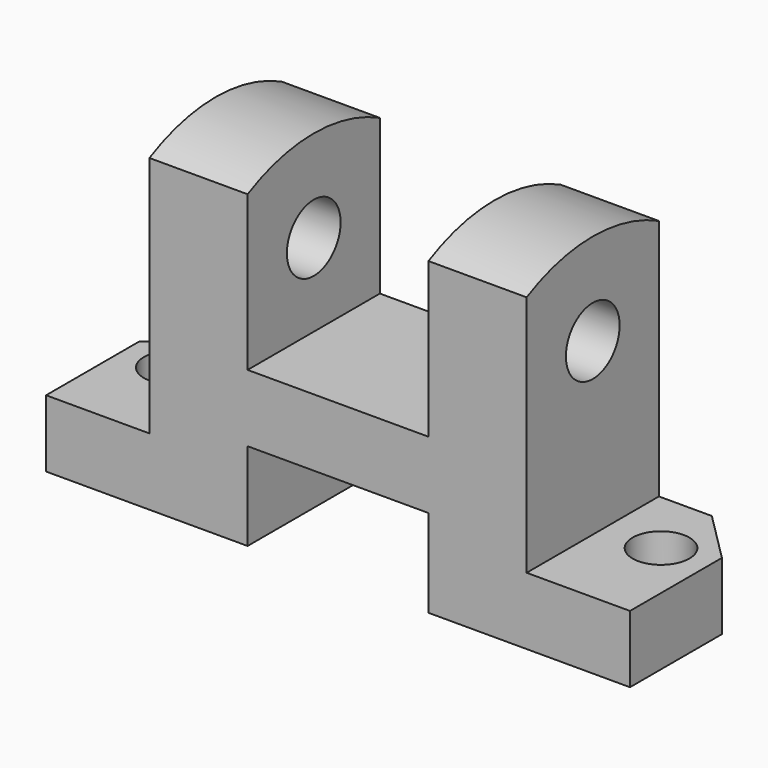
from build123d import *

# Parameters (mm, degrees)
F1_DEPTH = 32
F2_R     = 5.5
F3_DEPTH = 25
F4_R     = 6.5
F5_DEPTH = 113.001


with BuildPart() as f1:
    # F0 (on Front) → F1 (new body)
    with BuildSketch(Plane.XZ):
        Polygon((0, 13), (0, 0), (39, 0), (39, 17), (74, 17), (74, 0), (113, 0), (113, 13), (93, 13), (93, 64), (74, 64), (74, 30), (39, 30), (39, 64), (20, 64), (20, 13), align=None)
    extrude(amount=F1_DEPTH)

    # F2 (on Top) → F3 (cut)
    with BuildSketch(Plane.XY):
        with Locations((9.231269, -13)):
            Circle(F2_R)
        with Locations((103.805094, -13)):
            Circle(F2_R)
        Polygon((9.587883, 0), (0, 0), (0, -9.587883), align=None)
        Polygon((113, -9.757595), (113, 0), (103.242405, 0), align=None)
    extrude(amount=F3_DEPTH, mode=Mode.SUBTRACT)

    # F4 (on Right) → F5 (cut, through all)
    with BuildSketch(Plane.YZ):
        with Locations((-16, 46)):
            Circle(F4_R)
        with BuildLine():
            ThreePointArc((-32, 59.928225), (-16, 63.799461), (0, 59.928225))
            Line((0, 59.928225), (0, 64))
            Line((0, 64), (-32, 64))
            Line((-32, 64), (-32, 59.928225))
        make_face()
    extrude(amount=F5_DEPTH, mode=Mode.SUBTRACT)


solid = f1.part
